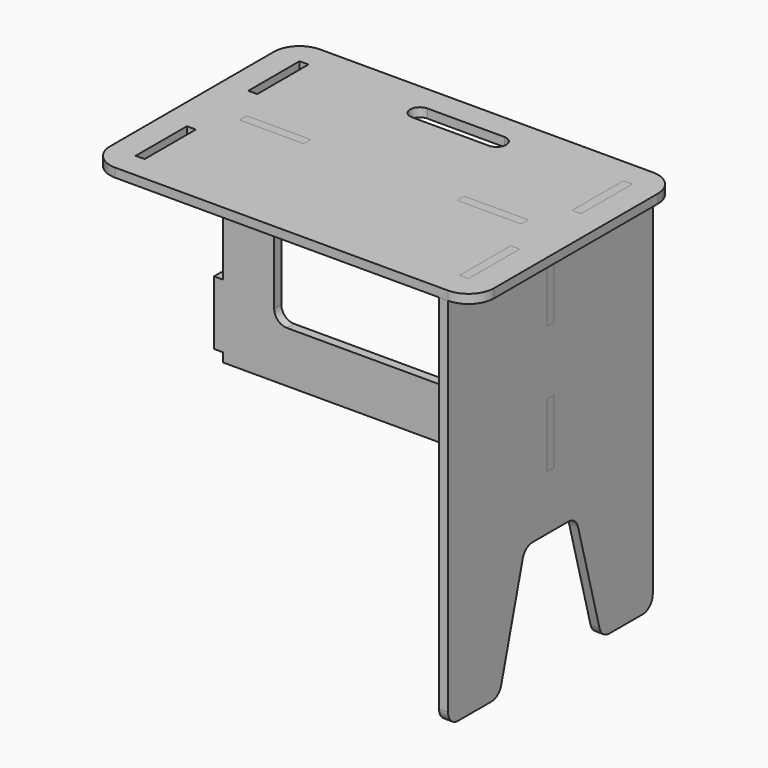
from build123d import *

# Parameters (mm, degrees)
SKETCH_W     = 14
SKETCH_H     = 100
SKETCH_W_2   = 100
SKETCH_H_2   = 14
PAD_DEPTH    = 14
SKETCH001_W  = 14
SKETCH001_H  = 100
PAD001_DEPTH = 7
FILLET_R     = 20
SKETCH002_W  = 332
SKETCH002_H  = 168
PAD002_DEPTH = 7
FILLET001_R  = 20


with BuildPart() as seat:
    # Sketch → Pad (new body)
    with BuildSketch(Plane.XY):
        with BuildLine():
            Line((-260, 200), (260, 200))
            ThreePointArc((300, 160), (288.284271, 188.284271), (260, 200))
            Line((300, 160), (300, -160))
            ThreePointArc((260, -200), (288.284271, -188.284271), (300, -160))
            Line((260, -200), (-260, -200))
            ThreePointArc((-300, -160), (-288.284271, -188.284271), (-260, -200))
            Line((-300, -160), (-300, 160))
            ThreePointArc((-260, 200), (-288.284271, 188.284271), (-300, 160))
        make_face()
        with BuildLine():
            ThreePointArc((-60, 160), (-75, 145), (-60, 130))
            Line((-60, 130), (60, 130))
            ThreePointArc((60, 130), (75, 145), (60, 160))
            Line((-60, 160), (60, 160))
        make_face(mode=Mode.SUBTRACT)
        with Locations((-253, 110)):
            Rectangle(SKETCH_W, SKETCH_H, mode=Mode.SUBTRACT)
        with Locations((-253, -110)):
            Rectangle(SKETCH_W, SKETCH_H, mode=Mode.SUBTRACT)
        with Locations((253, 110)):
            Rectangle(SKETCH_W, SKETCH_H, mode=Mode.SUBTRACT)
        with Locations((253, -110)):
            Rectangle(SKETCH_W, SKETCH_H, mode=Mode.SUBTRACT)
        with Locations((-170, 0)):
            Rectangle(SKETCH_W_2, SKETCH_H_2, mode=Mode.SUBTRACT)
        with Locations((170, 0)):
            Rectangle(SKETCH_W_2, SKETCH_H_2, mode=Mode.SUBTRACT)
    extrude(amount=-PAD_DEPTH)


with BuildPart() as body002:
    # Sketch001 → Pad001 (new body, symmetric)
    with BuildSketch(Plane.YZ):
        Polygon((-200, -600), (-200, -14), (-160, -14), (-160, 0), (-60, 0), (-60, -14), (60, -14), (60, 0), (160, 0), (160, -14), (200, -14), (200, -600), (100, -600), (50, -413.39746), (-50, -413.39746), (-100, -600), align=None)
        with Locations((0, -78)):
            Rectangle(SKETCH001_W, SKETCH001_H, mode=Mode.SUBTRACT)
        with Locations((0, -278)):
            Rectangle(SKETCH001_W, SKETCH001_H, mode=Mode.SUBTRACT)
    extrude(amount=PAD001_DEPTH, both=True)

    # Fillet
    fillet_edges = [body002.edges().sort_by_distance(p)[0] for p in [
        (0, 100, -600),
        (0, 200, -600),
        (0, 50, -413.39746),
        (0, -50, -413.39746),
        (0, -100, -600),
        (0, -200, -600),
    ]]
    fillet(fillet_edges, radius=FILLET_R)


with BuildPart() as body002_1:
    # Body001 placement: moved
    add(body002.part.moved(Location((-253, 0, 0))))


with BuildPart() as body002_2:
    # Clone placement: moved
    add(body002_1.part.moved(Location((253, 0, 0))))


with BuildPart() as body002_3:
    # Body002 placement: moved
    add(body002_2.part.moved(Location((253, 0, 0))))


with BuildPart() as structure:
    # Sketch002 → Pad002 (new body, symmetric)
    with BuildSketch(Plane.XZ):
        Polygon((-220, -14), (-220, 0), (-120, 0), (-120, -14), (120, -14), (120, 0), (220, 0), (220, -14), (246, -14), (246, -28), (260, -28), (260, -128), (246, -128), (246, -228), (260, -228), (260, -328), (246, -328), (246, -342), (-246, -342), (-246, -328), (-260, -328), (-260, -228), (-246, -228), (-246, -128), (-260, -128), (-260, -28), (-246, -28), (-246, -14), align=None)
        with Locations((0, -178)):
            Rectangle(SKETCH002_W, SKETCH002_H, mode=Mode.SUBTRACT)
    extrude(amount=PAD002_DEPTH, both=True)

    # Fillet001
    fillet001_edges = [structure.edges().sort_by_distance(p)[0] for p in [
        (-166, 0, -94),
        (166, 0, -94),
        (166, 0, -262),
        (-166, 0, -262),
    ]]
    fillet(fillet001_edges, radius=FILLET001_R)


solid = Compound([seat.part, body002_3.part, structure.part])
